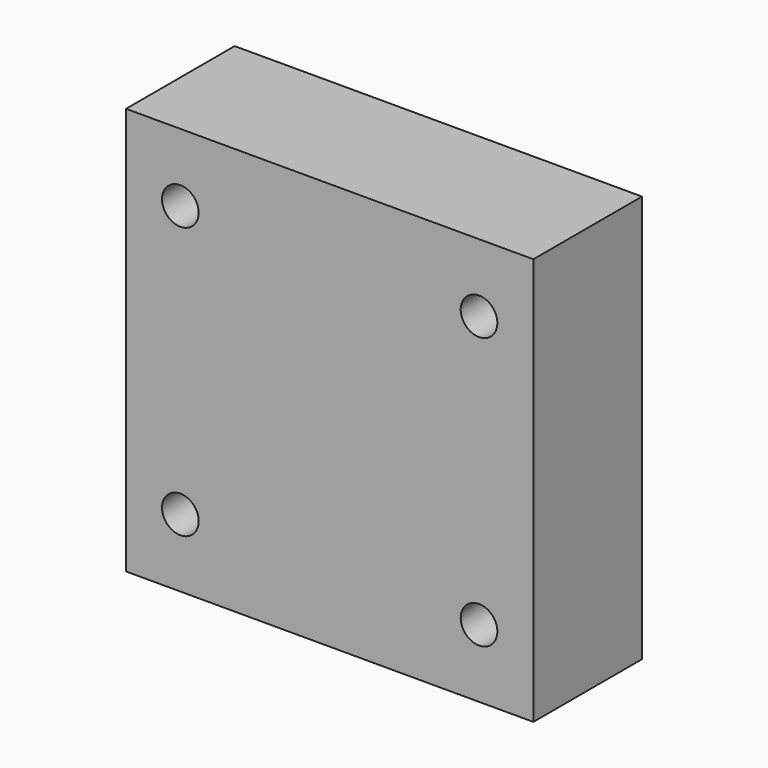
from build123d import *

# Parameters (mm, degrees)
F0_W     = 30
F0_H     = 30
F1_DEPTH = 10
F3_DEPTH = 25


with BuildPart() as f1:
    # F0 (on Front) → F1 (new body)
    with BuildSketch(Plane.XZ):
        with Locations((15, -15)):
            Rectangle(F0_W, F0_H)
    extrude(amount=F1_DEPTH)

    # F2 (on face) → F3 (cut)
    with BuildSketch(Plane.XZ.offset(10)):
        with BuildLine():
            ThreePointArc((5.35, -25), (4, -23.65), (2.65, -25))
            Line((2.65, -25), (5.35, -25))
        make_face()
        with BuildLine():
            Line((5.35, -25), (2.65, -25))
            ThreePointArc((2.65, -25), (4, -26.35), (5.35, -25))
        make_face()
        with BuildLine():
            ThreePointArc((27.35, -25), (26, -23.65), (24.65, -25))
            Line((24.65, -25), (27.35, -25))
        make_face()
        with BuildLine():
            Line((27.35, -25), (24.65, -25))
            ThreePointArc((24.65, -25), (26, -26.35), (27.35, -25))
        make_face()
        with BuildLine():
            Line((27.35, -5), (24.65, -5))
            ThreePointArc((24.65, -5), (26, -6.35), (27.35, -5))
        make_face()
        with BuildLine():
            ThreePointArc((27.35, -5), (26, -3.65), (24.65, -5))
            Line((24.65, -5), (27.35, -5))
        make_face()
        with BuildLine():
            Line((5.35, -5), (2.65, -5))
            ThreePointArc((2.65, -5), (4, -6.35), (5.35, -5))
        make_face()
        with BuildLine():
            ThreePointArc((5.35, -5), (4, -3.65), (2.65, -5))
            Line((2.65, -5), (5.35, -5))
        make_face()
    extrude(amount=-F3_DEPTH, mode=Mode.SUBTRACT)


solid = f1.part
